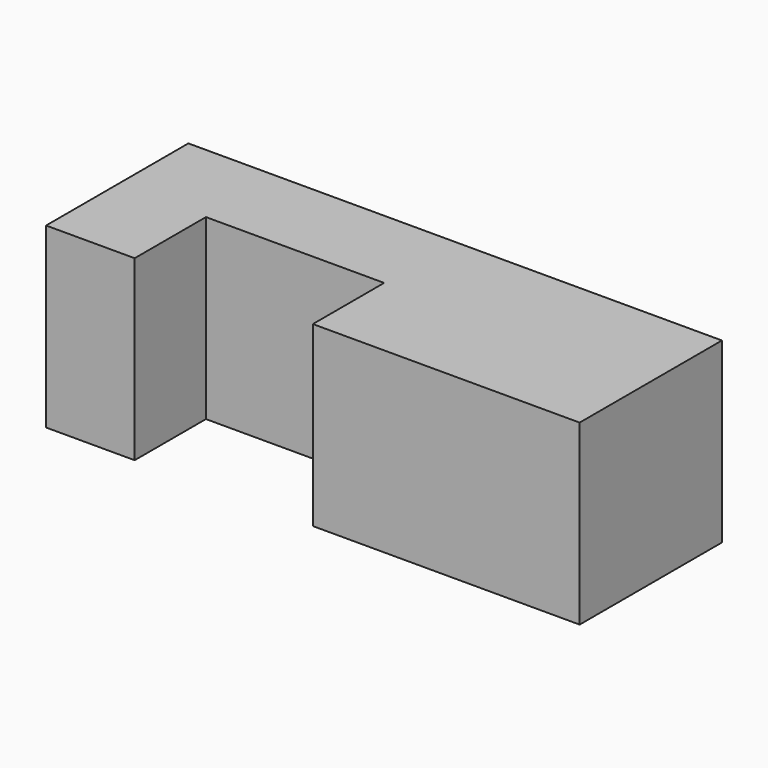
from build123d import *

# Parameters (mm, degrees)
F0_W     = 76.2
F0_H     = 25.4
F1_DEPTH = 25.4
F2_W     = 25.4508
F2_H     = 12.7254
F3_DEPTH = 25.4
F4_W     = 25.4508
F4_H     = 12.7254
F5_DEPTH = 25.654
F6_DEPTH = 12.304268


with BuildPart() as f1:
    # F0 (on Top) → F1 (new body)
    with BuildSketch(Plane.XY):
        with Locations((38.1, 12.7)):
            Rectangle(F0_W, F0_H)
    extrude(amount=F1_DEPTH)

    # F2 (on Front) → F3 (cut)
    with BuildSketch(Plane.XZ):
        with Locations((38.1, 19.458432)):
            Rectangle(F2_W, F2_H)
    extrude(amount=-F3_DEPTH, mode=Mode.SUBTRACT)

    # F4 (on Top) → F5 (cut)
    with BuildSketch(Plane.XY):
        with Locations((25.3746, 6.3627)):
            Rectangle(F4_W, F4_H)
    extrude(amount=F5_DEPTH, mode=Mode.SUBTRACT)

    # F3_face (on face) → F6 (join, through all)
    with BuildSketch(Plane(origin=(40.22656, 14.81807, 13.095732), x_dir=(1, 0, 0), z_dir=(0, 0, 1))):
        Polygon((-14.85196, -2.09267), (-2.12656, -2.09267), (-2.12656, -14.81807), (10.59884, -14.81807), (10.59884, 10.58193), (-14.85196, 10.58193), align=None)
    extrude(amount=F6_DEPTH)


solid = f1.part
